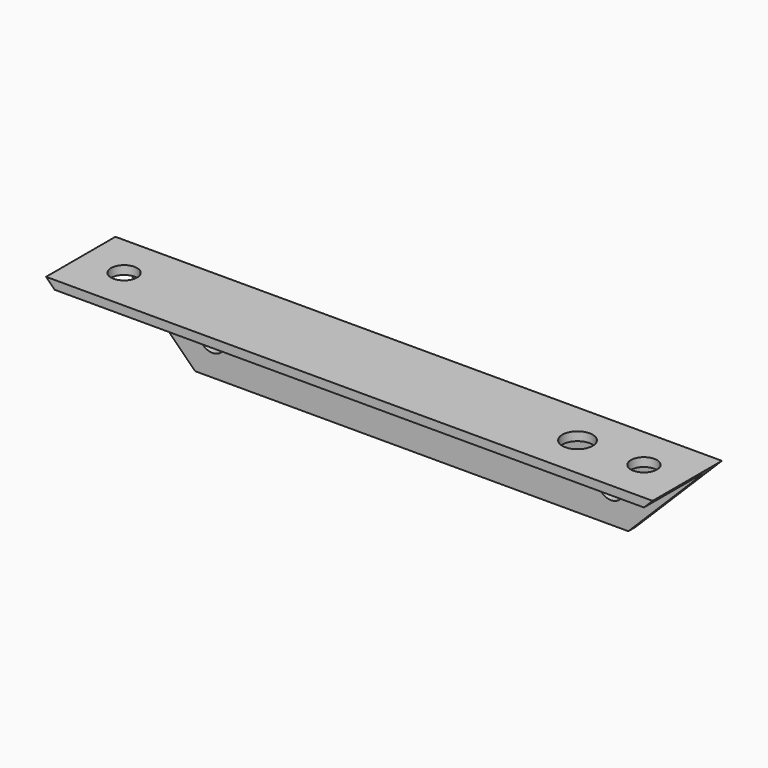
from build123d import *

# Parameters (mm, degrees)
F1_DEPTH = 210
F3_D     = 9
F3_DEPTH = 12
F3_TIP   = 2.7038727856
F5_DEPTH = 95
F7_D     = 9
F7_DEPTH = 12
F7_TIP   = 2.7038727856
F9_D     = 10.5
F9_DEPTH = 12
F9_TIP   = 3.1545182499


with BuildPart() as f1:
    # F0 (on Right) → F1 (new body)
    with BuildSketch(Plane.YZ):
        with BuildLine():
            Line((-3, 0), (0, 0))
            Line((0, 0), (0, 30))
            Line((0, 30), (-30, 30))
            Line((-30, 30), (-30, 27))
            Line((-30, 27), (-6, 27))
            ThreePointArc((-6, 27), (-3.8786796564, 26.1213203436), (-3, 24))
            Line((-3, 24), (-3, 0))
        make_face()
    extrude(amount=F1_DEPTH)

    # F3
    with Locations(Plane.XZ.offset(3)):
        with Locations((36, 12), (174, 12)):
            Hole(F3_D / 2, depth=F3_DEPTH)
            with Locations((0, 0, -(F3_DEPTH + F3_TIP / 2))):  # 118° drill point
                Cone(0, F3_D / 2, F3_TIP, mode=Mode.SUBTRACT)

    # F4 (on face) → F5 (cut)
    with BuildSketch(Plane.XZ.offset(30)):
        Polygon((30, 0), (3, 27), (0, 27), (0, 0), align=None)
        Polygon((3, 27), (0, 30), (0, 27), align=None)
        Polygon((210, 27), (210, 30), (207, 27), align=None)
        Polygon((210, 27), (207, 27), (180, 0), (210, 0), align=None)
    extrude(amount=-F5_DEPTH, mode=Mode.SUBTRACT)

    # F7
    with Locations(Plane(origin=(0, 0, 27), x_dir=(1, 0, 0), z_dir=(0, 0, -1))):
        with Locations((15, 15), (195, 15)):
            Hole(F7_D / 2, depth=F7_DEPTH)
            with Locations((0, 0, -(F7_DEPTH + F7_TIP / 2))):  # 118° drill point
                Cone(0, F7_D / 2, F7_TIP, mode=Mode.SUBTRACT)

    # F9
    with Locations(Plane(origin=(0, 0, 27), x_dir=(1, 0, 0), z_dir=(0, 0, -1))):
        with Locations((172, 15)):
            Hole(F9_D / 2, depth=F9_DEPTH)
            with Locations((0, 0, -(F9_DEPTH + F9_TIP / 2))):  # 118° drill point
                Cone(0, F9_D / 2, F9_TIP, mode=Mode.SUBTRACT)


solid = f1.part
